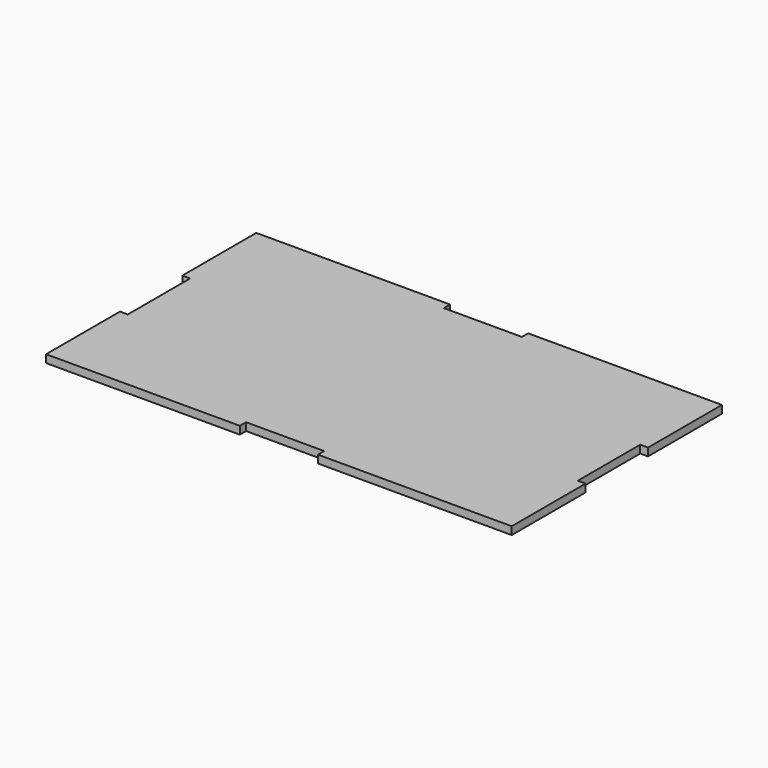
from build123d import *

# Parameters (mm, degrees)
F0_W     = 179
F0_H     = 101
F1_DEPTH = 3
F2_W     = 30
F2_H     = 3
F2_W_2   = 3
F2_H_2   = 30
F3_DEPTH = 25


with BuildPart() as f1:
    # F0 (on Top) → F1 (new body)
    with BuildSketch(Plane.XY):
        with Locations((31.557166, 24.467711)):
            Rectangle(F0_W, F0_H)
    extrude(amount=F1_DEPTH)

    # F2 (on face) → F3 (cut)
    with BuildSketch(Plane.XY.offset(3)):
        with Locations((31.557166, 73.467711)):
            Rectangle(F2_W, F2_H)
        with Locations((-56.442834, 24.467711)):
            Rectangle(F2_W_2, F2_H_2)
        with Locations((119.557166, 24.467711)):
            Rectangle(F2_W_2, F2_H_2)
        with Locations((31.557166, -24.532289)):
            Rectangle(F2_W, F2_H)
    extrude(amount=-F3_DEPTH, mode=Mode.SUBTRACT)


solid = f1.part
